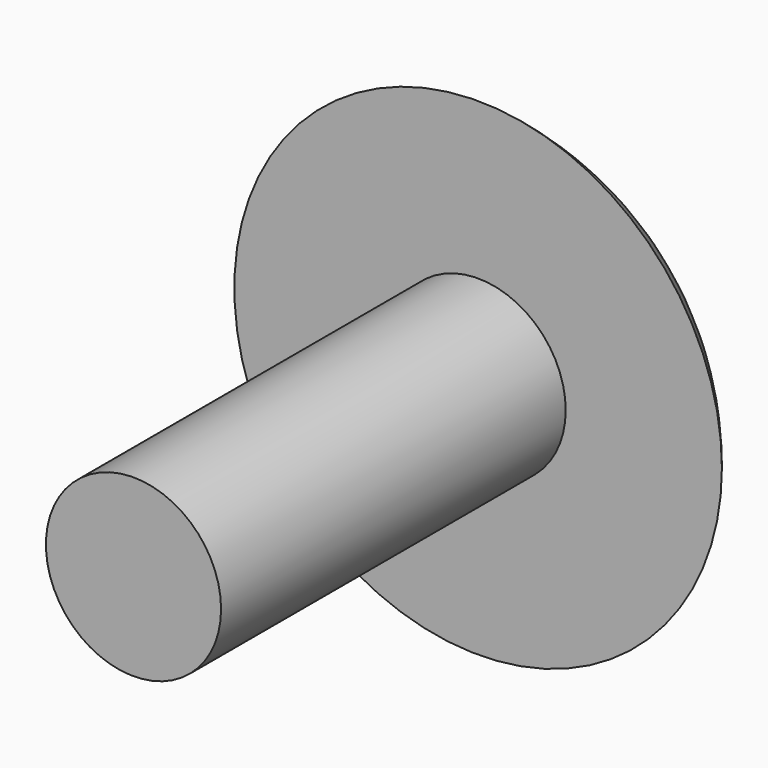
from build123d import *

# Parameters (mm, degrees)
F2_R     = 0.925
F3_DEPTH = 4.55


with BuildPart() as f1:
    # F0 (on Top) → F1 (revolve)
    with BuildSketch(Plane.XY):
        with BuildLine():
            Line((-27.135875, 11.843064), (-27.135875, 10.607485))
            Line((-27.135875, 10.607485), (-24.560875, 10.607485))
            ThreePointArc((-24.560875, 10.607485), (-25.704484, 11.525151), (-27.135875, 11.843064))
        make_face()
    revolve(axis=Axis((-27.135875, 11.843064, 0), (0, 1, 0)))

    # F2 (on face) → F3 (join)
    with BuildSketch(Plane.XZ.offset(-10.607485)):
        with Locations((-27.135875, 0)):
            Circle(F2_R)
    extrude(amount=F3_DEPTH)


solid = f1.part
